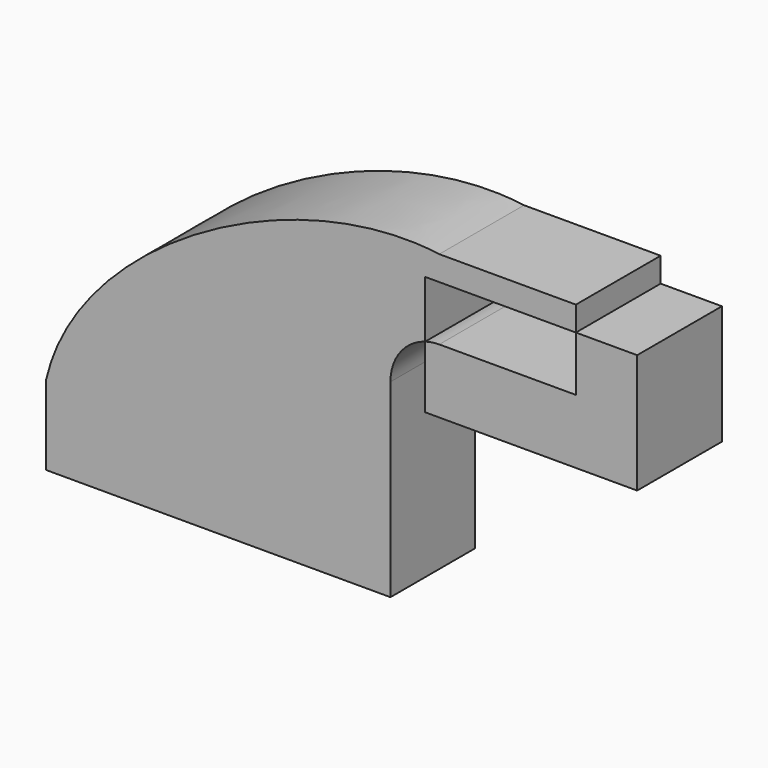
from build123d import *

# Parameters (mm, degrees)
F1_DEPTH = 25.4


with BuildPart() as f1:
    # F0 (on Front) → F1 (new body)
    with BuildSketch(Plane.XZ):
        Polygon((41.275, -9.525), (41.275, 9.525), (22.225, 9.525), (-41.275, 9.525), (-41.275, -9.525), align=None)
        with BuildLine():
            Line((-41.275, 9.525), (22.225, 9.525))
            Line((22.225, 9.525), (22.225, 35.92883))
            ThreePointArc((22.225, 35.92883), (31.230345, 57.669655), (52.97117, 66.675))
            add(Edge.make_bspline(
                [(-41.275, 9.525), (-33.578616, 43.073166), (18.01216, 71.464382), (52.97117, 66.675)],
                knots=[0, 0, 0, 0, 110.220066, 110.220066, 110.220066, 110.220066], degree=3))
        make_face()
        with BuildLine():
            Line((22.225, 9.525), (41.275, 9.525))
            Line((41.275, 9.525), (41.275, 35.92883))
            ThreePointArc((41.275, 35.92883), (43.588373, 42.911918), (49.613373, 47.132651))
            Line((49.613373, 47.132651), (49.613373, 60.782004))
            Line((49.613373, 60.782004), (85.725, 60.782004))
            Line((85.725, 60.782004), (85.725, 66.675))
            Line((85.725, 66.675), (52.97117, 66.675))
            ThreePointArc((52.97117, 66.675), (31.230345, 57.669655), (22.225, 35.92883))
            Line((22.225, 35.92883), (22.225, 9.525))
        make_face()
        with BuildLine():
            ThreePointArc((52.97117, 47.625), (51.274319, 47.501258), (49.613373, 47.132651))
            Line((49.613373, 47.132651), (49.613373, 32.207004))
            Line((49.613373, 32.207004), (100.413373, 32.207004))
            Line((100.413373, 32.207004), (100.413373, 60.782004))
            Line((100.413373, 60.782004), (85.725, 60.782004))
            Line((85.725, 60.782004), (85.725, 47.625))
            Line((85.725, 47.625), (52.97117, 47.625))
        make_face()
    extrude(amount=F1_DEPTH)


solid = f1.part
